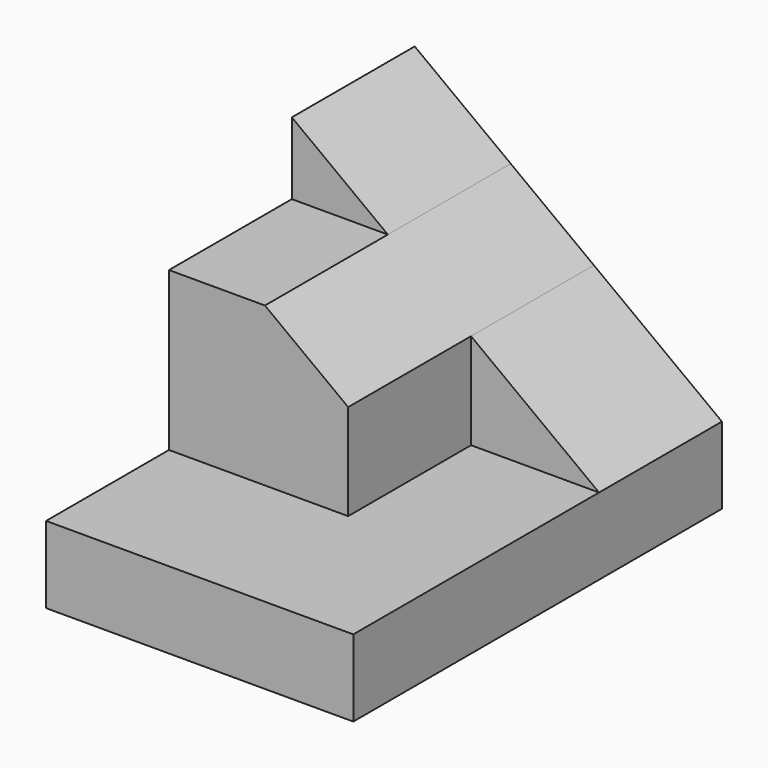
from build123d import *

# Parameters (mm, degrees)
F1_DEPTH = 38.1
F2_DEPTH = 25.4
F3_DEPTH = 12.7
F4_DEPTH = 12.7


with BuildPart() as f1:
    # F0 (on Front) → F1 (new body)
    with BuildSketch(Plane.XZ):
        Polygon((0, 6.35), (0, 0), (25.4, 0), (25.4, 6.35), (14.816667, 6.35), align=None)
    extrude(amount=F1_DEPTH)

    # F0 (on Front) → F2 (join)
    with BuildSketch(Plane.XZ):
        Polygon((0, 19.446875), (0, 6.35), (14.816667, 6.35), (14.816667, 14.2875), (7.9375, 19.446875), align=None)
    extrude(amount=F2_DEPTH)

    # F0 (on Front) → F3 (join)
    with BuildSketch(Plane.XZ):
        Polygon((0, 25.4), (0, 19.446875), (7.9375, 19.446875), align=None)
    extrude(amount=F3_DEPTH)

    # F0 (on Front) → F4 (join)
    with BuildSketch(Plane.XZ):
        Polygon((14.816667, 14.2875), (14.816667, 6.35), (25.4, 6.35), align=None)
    extrude(amount=F4_DEPTH)


solid = f1.part
